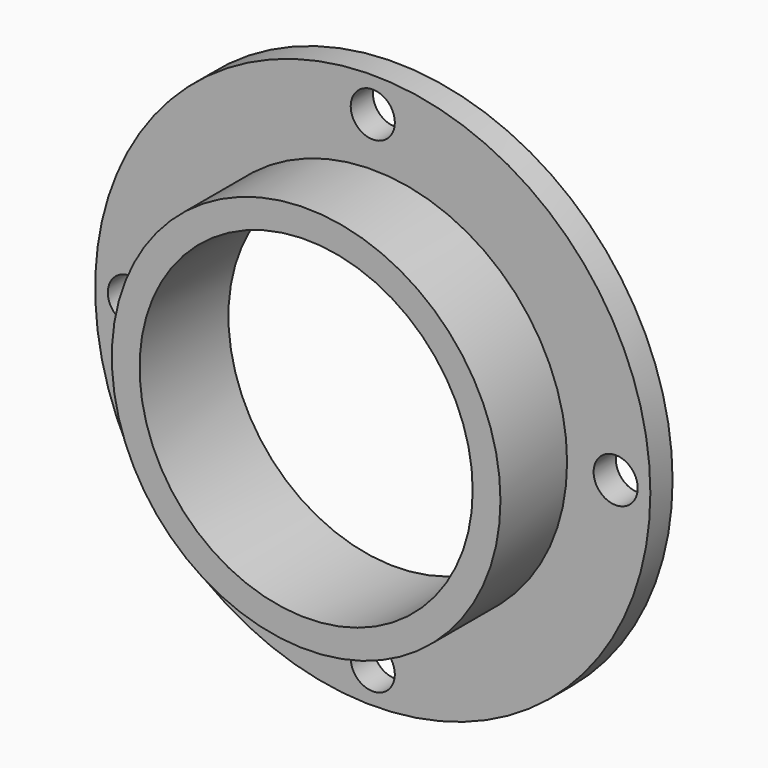
from build123d import *

# Parameters (mm, degrees)
F0_R     = 63.5
F0_R_2   = 38.1
F1_DEPTH = 6.35
F2_R     = 44.45
F2_R_2   = 38.1
F3_DEPTH = 19.05
F5_D     = 10.0838


with BuildPart() as f1:
    # F0 (on Front) → F1 (new body)
    with BuildSketch(Plane.XZ):
        Circle(F0_R)
        Circle(F0_R_2, mode=Mode.SUBTRACT)
    extrude(amount=F1_DEPTH)

    # F2 (on face) → F3 (join)
    with BuildSketch(Plane.XZ.offset(6.35)):
        Circle(F2_R)
        Circle(F2_R_2, mode=Mode.SUBTRACT)
    extrude(amount=F3_DEPTH)

    # F5 (through all)
    with Locations(Plane.XZ.offset(6.35)):
        with Locations((0, 55.5625), (55.5625, 0), (-55.5625, 0), (0, -55.5625)):
            Hole(F5_D / 2)


solid = f1.part
